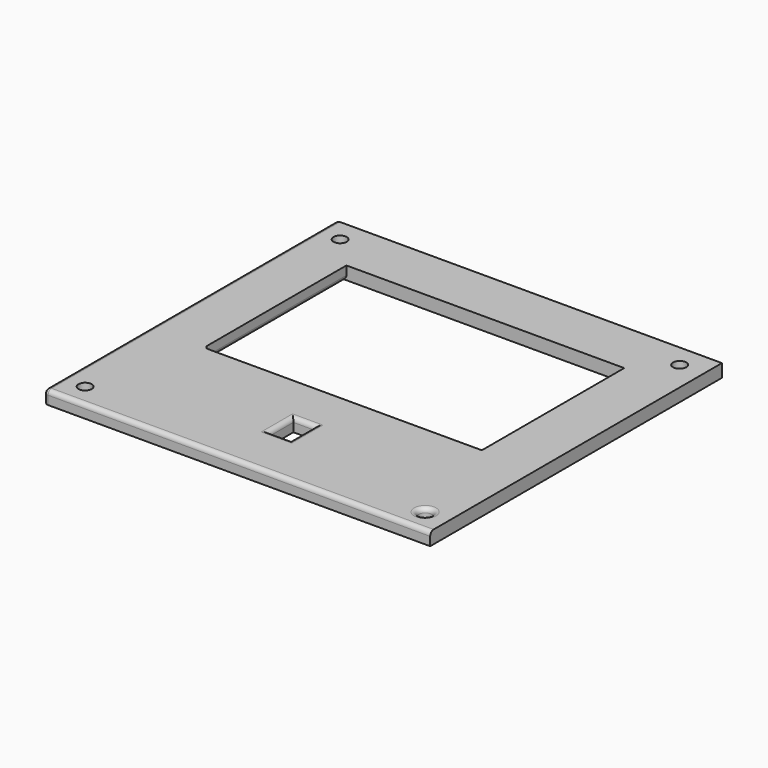
from build123d import *

# Parameters (mm, degrees)
SKETCH006_W      = 89
SKETCH006_H      = 84
SKETCH006_R      = 1.524
SKETCH006_W_2    = 5
SKETCH006_H_2    = 7
SKETCH006_W_3    = 64
SKETCH006_H_3    = 41
EXTRUDE006_DEPTH = 3
FILLET008_R      = 1
FILLET009_R      = 1
FILLET010_R      = 1
FILLET012_R      = 1
FILLET013_R      = 1
FILLET014_R      = 1
FILLET015_R      = 1


with BuildPart() as part:
    # Sketch006 → Extrude006 (new body)
    with BuildSketch(Plane.XY):
        with Locations((91.667907, 54.392171)):
            Rectangle(SKETCH006_W, SKETCH006_H)
        with Locations((52.453907, 91.106708)):
            Circle(SKETCH006_R, mode=Mode.SUBTRACT)
        with Locations((130.657907, 91.102171)):
            Circle(SKETCH006_R, mode=Mode.SUBTRACT)
        with Locations((130.707907, 17.767171)):
            Circle(SKETCH006_R, mode=Mode.SUBTRACT)
        with Locations((52.453907, 17.678171)):
            Circle(SKETCH006_R, mode=Mode.SUBTRACT)
        with Locations((91.717396, 28.192171)):
            Rectangle(SKETCH006_W_2, SKETCH006_H_2, mode=Mode.SUBTRACT)
        with Locations((91.667907, 63.392171)):
            Rectangle(SKETCH006_W_3, SKETCH006_H_3, mode=Mode.SUBTRACT)
    extrude(amount=EXTRUDE006_DEPTH)


with BuildPart() as part_1:
    # Extrude006 placement: moved
    add(part.part.moved(Location((0, 0, 30))))

    # Fillet008
    fillet008_edges = [part_1.edges().sort_by_distance(p)[0] for p in [
        (47.167907, 12.392171, 31.5),
    ]]
    fillet(fillet008_edges, radius=FILLET008_R)

    # Fillet009
    fillet009_edges = [part_1.edges().sort_by_distance(p)[0] for p in [
        (59.667907, 42.892171, 31.5),
    ]]
    fillet(fillet009_edges, radius=FILLET009_R)

    # Fillet010
    fillet010_edges = [part_1.edges().sort_by_distance(p)[0] for p in [
        (47.167907, 96.392171, 31.5),
        (47.167907, 54.892171, 33),
    ]]
    fillet(fillet010_edges, radius=FILLET010_R)

    # Fillet012
    fillet012_edges = [part_1.edges().sort_by_distance(p)[0] for p in [
        (129.183907, 17.767171, 33),
    ]]
    fillet(fillet012_edges, radius=FILLET012_R)

    # Fillet013
    fillet013_edges = [part_1.edges().sort_by_distance(p)[0] for p in [
        (132.5248, 17.767171, 32.707107),
        (91.717396, 31.692171, 33),
        (94.217396, 28.192171, 33),
    ]]
    fillet(fillet013_edges, radius=FILLET013_R)

    # Fillet014
    fillet014_edges = [part_1.edges().sort_by_distance(p)[0] for p in [
        (59.667907, 63.892171, 30),
    ]]
    fillet(fillet014_edges, radius=FILLET014_R)

    # Fillet015
    fillet015_edges = [part_1.edges().sort_by_distance(p)[0] for p in [
        (95.217396, 28.692171, 33),
        (94.717396, 24.692171, 33),
        (91.717396, 24.692171, 33),
        (89.217396, 28.192171, 33),
    ]]
    fillet(fillet015_edges, radius=FILLET015_R)


solid = part_1.part
